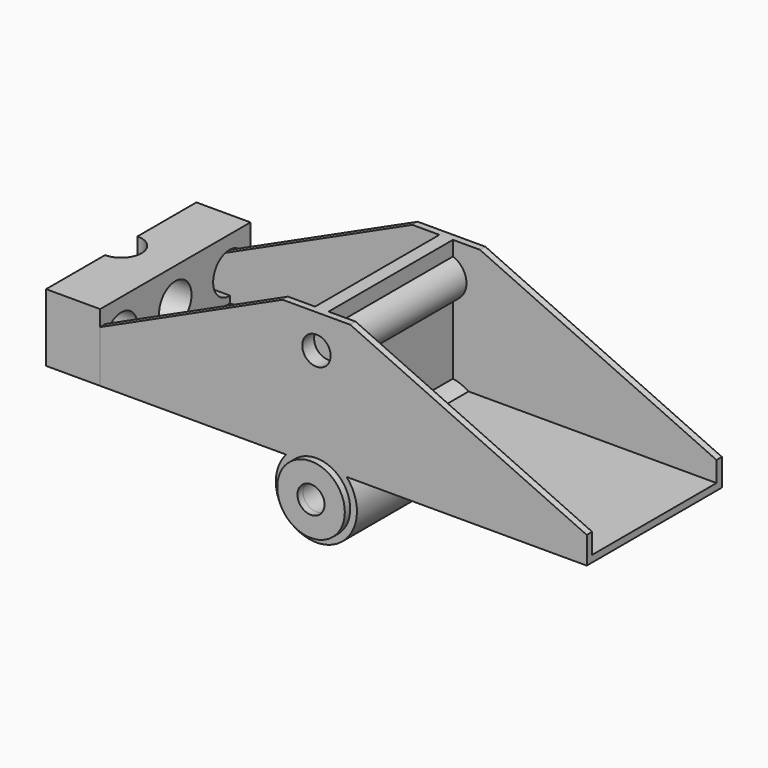
from build123d import *

# Parameters (mm, degrees)
SKETCH_W             = 80
SKETCH_H             = 25
PAD_DEPTH            = 20
SKETCH001_W          = 39
SKETCH001_H          = 23
POCKET_DEPTH         = 19
POCKET001_DEPTH      = 25.001
SKETCH003_R          = 3
PAD001_DEPTH         = 25
SKETCH004_R          = 2.1
POCKET002_DEPTH      = 2.2
SKETCH007_R          = 2.1
POCKET004_DEPTH      = 2.2
SKETCH005_R          = 6
PAD002_DEPTH         = 25
SKETCH006_R          = 5
PAD003_DEPTH         = 1
SKETCH009_R          = 5
PAD004_DEPTH         = 1
SKETCH008_R          = 2
POCKET005_DEPTH      = 26.001
POCKET005_DEPTH_BACK = -1.001
SKETCH010_W          = 27.8
SKETCH010_H          = 10
PAD005_DEPTH         = 8
SKETCH011_R          = 3
POCKET006_DEPTH      = 8.001
SKETCH012_R          = 3
HOLE_DEPTH           = 10.001


with BuildPart() as obj1:
    # Sketch → Pad (new body)
    with BuildSketch(Plane.XY):
        with Locations((40, 12.5)):
            Rectangle(SKETCH_W, SKETCH_H)
    extrude(amount=PAD_DEPTH)

    # Sketch001 (on Face6 of Pad) → Pocket (cut)
    with BuildSketch(Plane.XY.offset(20)):
        with Locations((19.5, 12.5)):
            Rectangle(SKETCH001_W, SKETCH001_H)
        with Locations((60.5, 12.5)):
            Rectangle(SKETCH001_W, SKETCH001_H)
    extrude(amount=-POCKET_DEPTH, mode=Mode.SUBTRACT)

    # Sketch002 → Pocket001 (cut, through all)
    with BuildSketch(Plane.XZ):
        Polygon((0, 4), (35, 20), (0, 20), align=None)
        Polygon((80, 4), (80, 20), (45, 20), align=None)
    extrude(amount=-POCKET001_DEPTH, mode=Mode.SUBTRACT)

    # Sketch003 → Pad001 (join)
    with BuildSketch(Plane.XZ):
        with Locations((40, 15)):
            Circle(SKETCH003_R)
    extrude(amount=-PAD001_DEPTH)

    # Sketch004 → Pocket002 (cut)
    with BuildSketch(Plane.XZ):
        with Locations((40, 15)):
            Circle(SKETCH004_R)
    extrude(amount=-POCKET002_DEPTH, mode=Mode.SUBTRACT)

    # Sketch007 → Pocket004 (cut)
    with BuildSketch(Plane(origin=(0, 25, 0), x_dir=(-1, 0, 0), z_dir=(0, 1, 0))):
        with Locations((-40, 15)):
            Circle(SKETCH007_R)
    extrude(amount=-POCKET004_DEPTH, mode=Mode.SUBTRACT)

    # Sketch005 → Pad002 (join)
    with BuildSketch(Plane.XZ):
        with Locations((40, -4)):
            Circle(SKETCH005_R)
    extrude(amount=-PAD002_DEPTH)

    # Sketch006 → Pad003 (join)
    with BuildSketch(Plane.XZ):
        with Locations((40, -4)):
            Circle(SKETCH006_R)
    extrude(amount=PAD003_DEPTH)

    # Sketch009 (on Face1 of Pocket005) → Pad004 (join)
    with BuildSketch(Plane(origin=(0, 25, 0), x_dir=(-1, 0, 0), z_dir=(0, 1, 0))):
        with Locations((-40, -4)):
            Circle(SKETCH009_R)
    extrude(amount=PAD004_DEPTH)

    # Sketch008 → Pocket005 (cut, two sides)
    with BuildSketch(Plane.XZ) as pocket005_sk:
        with Locations((40, -4)):
            Circle(SKETCH008_R)
    extrude(amount=-POCKET005_DEPTH, mode=Mode.SUBTRACT)
    extrude(pocket005_sk.sketch, amount=-POCKET005_DEPTH_BACK, mode=Mode.SUBTRACT)


with BuildPart() as obj2:
    # Sketch010 → Pad005 (new body)
    with BuildSketch(Plane.YZ):
        with Locations((13.9, 5)):
            Rectangle(SKETCH010_W, SKETCH010_H)
    extrude(amount=PAD005_DEPTH)

    # Sketch011 (on DatumPlane) → Pocket006 (cut, through all)
    with BuildSketch(Plane.YZ.offset(8)):
        with Locations((3.9, 5)):
            Circle(SKETCH011_R)
        with Locations((23.9, 5)):
            Circle(SKETCH011_R)
        with Locations((13.9, 5)):
            Circle(SKETCH011_R)
    extrude(amount=-POCKET006_DEPTH, mode=Mode.SUBTRACT)

    # Sketch012 (on DatumPlane) → Hole (cut, through all)
    with BuildSketch(Plane.YX):
        with Locations((13.9, 0)):
            Circle(SKETCH012_R)
    extrude(amount=-HOLE_DEPTH, mode=Mode.SUBTRACT)


solid = Compound([obj1.part, obj2.part])
